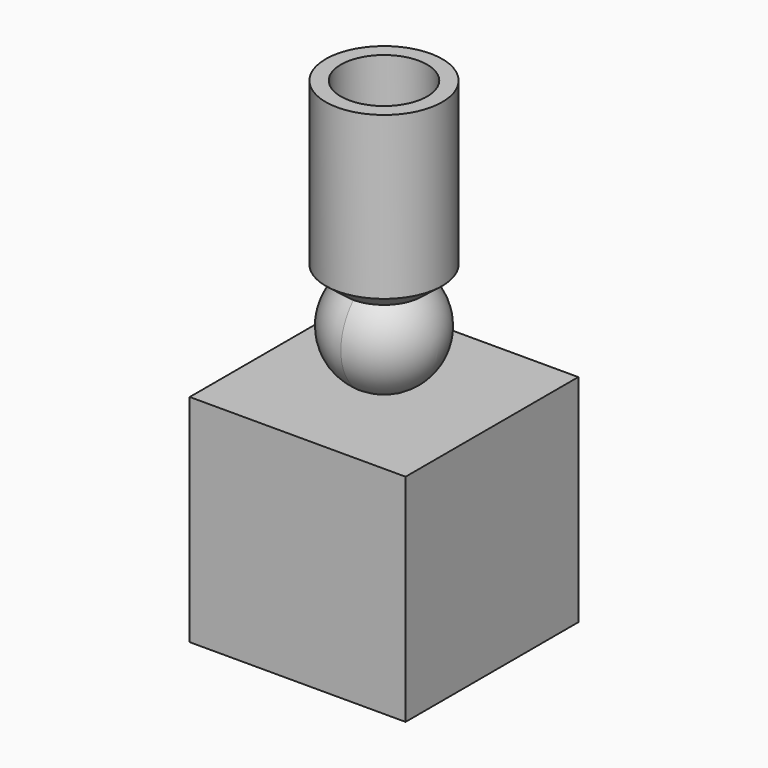
from build123d import *

# Parameters (mm, degrees)
F3_DEPTH = 10


with BuildPart() as f1:
    # F0 (on Front) → F1 (revolve)
    with BuildSketch(Plane.XZ):
        with BuildLine():
            Line((-1.5, 1.4644660941), (-3.5355339059, 1.4644660941))
            Line((-3.5355339059, 1.4644660941), (-3.5355339059, 0))
            ThreePointArc((-3.5355339059, 0), (-2.592284601, 0.7399848401), (-1.5, 1.2341621012))
            Line((-1.5, 1.2341621012), (-1.5, 1.4644660941))
        make_face()
        Polygon((-5.4, 16.4644660941), (-5.4, 1.4644660941), (-4, 1.4644660941), (-4, 1.7144660941), (-4, 16.4644660941), align=None)
        Polygon((-3.5355339059, 0), (-3.5355339059, 1.4644660941), (-1.5, 1.4644660941), (-1.5, 1.7144660941), (-4, 1.7144660941), (-4, 1.4644660941), (-5.4, 1.4644660941), align=None)
        Polygon((-3.5355339059, 0), (-3.5355339059, 1.4644660941), (-1.5, 1.4644660941), (-1.5, 1.7144660941), (-4, 1.7144660941), (-4, 1.4644660941), (-5.4, 1.4644660941), align=None)
    revolve(axis=Axis((0, 0, 0.732233047), (0, 0, 1)))


with BuildPart() as f2:
    # F0 (on Front) → F2 (revolve)
    with BuildSketch(Plane.XZ):
        with BuildLine():
            Line((0, -3.5355339059), (-5, -3.5355339059))
            ThreePointArc((-5, -3.5355339059), (-3.5355339059, -7.0710678119), (0, -8.5355339059))
            ThreePointArc((0, -8.5355339059), (3.5355339059, -7.0710678119), (5, -3.5355339059))
            Line((5, -3.5355339059), (0, -3.5355339059))
        make_face()
    revolve(axis=Axis((-2.5, 0, -3.5355339059), (-1, 0, 0)))


with BuildPart() as f3:
    # F0 (on Front) → F3 (new body, symmetric)
    with BuildSketch(Plane.XZ):
        Polygon((10, -8.5355339059), (0, -8.5355339059), (-10, -8.5355339059), (-10, -28.5355339059), (10, -28.5355339059), align=None)
    extrude(amount=F3_DEPTH, both=True)


solid = Compound([f1.part, f2.part, f3.part])
